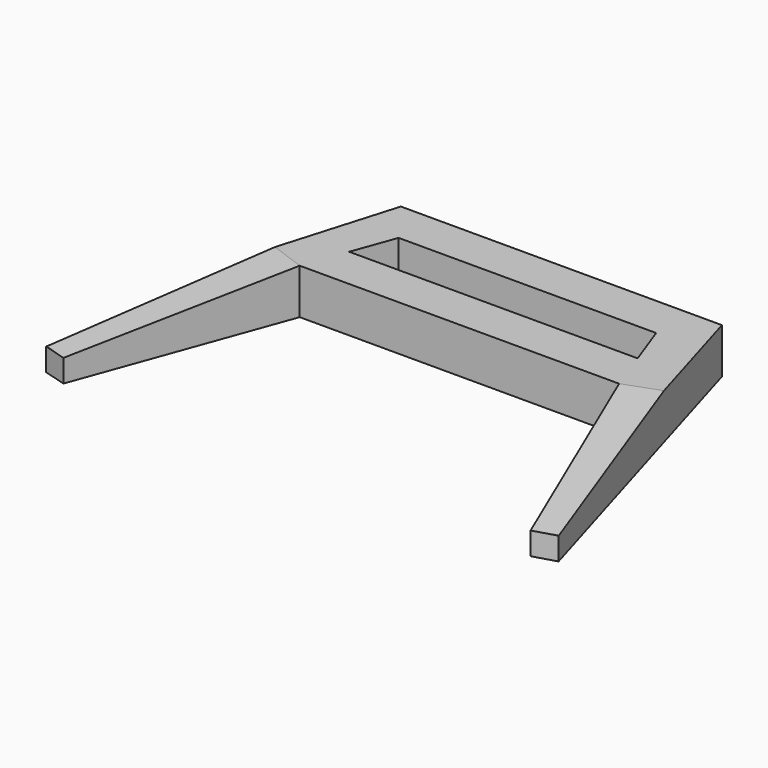
from build123d import *

# Parameters (mm, degrees)
F1_DEPTH = 48
F3_DEPTH = 142.236757


with BuildPart() as f1:
    # F0 (on Top) → F1 (new body)
    with BuildSketch(Plane.XY):
        Polygon((0, 45), (-152.755526, 45), (-169.134186, 0), (0, 0), align=None)
        Polygon((0, 90), (0, 135), (-170, 135), (-271.362335, -207.913322), (-247.387787, -215), (-169.134186, 0), (-152.755526, 45), (-136.376865, 90), align=None)
    extrude(amount=F1_DEPTH)

    # F2 (on face) → F3 (cut, through all)
    with BuildSketch(Plane(origin=(-149.349245, 54.35868, 0), x_dir=(0.34202, 0.939693, 0), z_dir=(0.939693, -0.34202, 0))):
        Polygon((-286.64552, 24), (-57.847299, 48), (-286.64552, 48), align=None)
        Polygon((-306.842566, 24), (-286.64552, 24), (-286.64552, 48), (-315.660655, 48), align=None)
    extrude(amount=-F3_DEPTH, mode=Mode.SUBTRACT)

    # F4: F1 across plane


with BuildPart() as f1_1:
    add(f1.part)
    add(f1.part.mirror(Plane.YZ))


solid = f1_1.part
